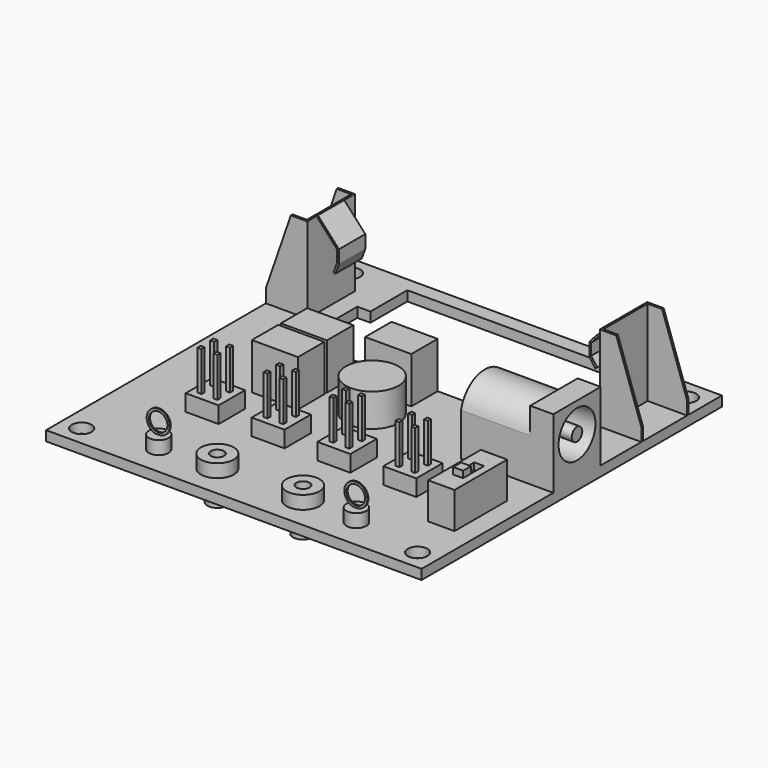
from build123d import *

# Parameters (mm, degrees)
SKETCH_W          = 57
SKETCH_H          = 57
PAD_DEPTH         = 1.5
SKETCH001_R       = 1.5
POCKET_DEPTH      = 1.5
SKETCH002_R       = 1.5
PAD001_DEPTH      = 3
SKETCH003_R       = 2.5
SKETCH003_R_2     = 1.5
PAD002_DEPTH      = 2
SKETCH004_R       = 1
POCKET001_DEPTH   = 6.501
SKETCH005_R       = 1.75
SKETCH005_R_2     = 1.4
PAD003_DEPTH      = 0.1
PAD003_DEPTH_BACK = 0.1
SKETCH006_W       = 4
SKETCH006_H       = 10
PAD004_DEPTH      = 5.5
SKETCH007_W       = 1.5
SKETCH007_H       = 4
POCKET002_DEPTH   = 1
SKETCH008_W       = 1.5
SKETCH008_H       = 1.5
PAD005_DEPTH      = 2
SKETCH009_W       = 5
SKETCH009_H       = 5
PAD006_DEPTH      = 2.5
SKETCH010_W       = 0.6
SKETCH010_H       = 0.6
PAD007_DEPTH      = 6
SKETCH011_W       = 14
SKETCH011_H       = 9
PAD008_DEPTH      = 10.5
POCKET003_DEPTH   = 10.5
SKETCH013_R       = 3.5
POCKET004_DEPTH   = 9
SKETCH014_R       = 1
PAD009_DEPTH      = 9
PAD010_DEPTH      = 13
POCKET005_DEPTH   = 9
PAD011_DEPTH      = 5
SKETCH018_W       = 7
SKETCH018_H       = 5
PAD012_DEPTH      = 7
SKETCH019_R       = 4
PAD013_DEPTH      = 5


with BuildPart() as part:
    # Sketch → Pad (new body)
    with BuildSketch(Plane.XY):
        Rectangle(SKETCH_W, SKETCH_H)
    extrude(amount=PAD_DEPTH)

    # Sketch001 (on Face6 of Pad) → Pocket (cut)
    with BuildSketch(Plane.XY.offset(1.5)):
        with Locations((-25.5, 25.5)):
            Circle(SKETCH001_R)
        with Locations((25.5, 25.5)):
            Circle(SKETCH001_R)
        with Locations((25.5, -25.5)):
            Circle(SKETCH001_R)
        with Locations((-25.5, -25.5)):
            Circle(SKETCH001_R)
        Polygon((-17.5, 26.3), (17.5, 26.3), (17.5, 19.3), (19.5, 19.3), (19.5, 15.3), (17.5, 15.3), (17.5, 8.3), (-17.5, 8.3), (-17.5, 15.3), (-19.5, 15.3), (-19.5, 19.3), (-17.5, 19.3), align=None)
    extrude(amount=-POCKET_DEPTH, mode=Mode.SUBTRACT)

    # Sketch002 (on Face4 of Pocket) → Pad001 (join)
    with BuildSketch(Plane(origin=(0, 0, 0), x_dir=(1, 0, 0), z_dir=(0, 0, -1))):
        with Locations((-6.5, 23.5)):
            Circle(SKETCH002_R)
        with Locations((6.5, 23.5)):
            Circle(SKETCH002_R)
    extrude(amount=PAD001_DEPTH)

    # Sketch003 (on Face5 of Pad001) → Pad002 (join)
    with BuildSketch(Plane.XY.offset(1.5)):
        with Locations((-6.5, -23.5)):
            Circle(SKETCH003_R)
        with Locations((6.5, -23.5)):
            Circle(SKETCH003_R)
        with Locations((15, -24)):
            Circle(SKETCH003_R_2)
        with Locations((-15, -24)):
            Circle(SKETCH003_R_2)
    extrude(amount=PAD002_DEPTH)

    # Sketch004 (on Face30 of Pad002) → Pocket001 (cut, through all)
    with BuildSketch(Plane(origin=(0, 0, -3), x_dir=(1, 0, 0), z_dir=(0, 0, -1))):
        with Locations((-6.5, 23.5)):
            Circle(SKETCH004_R)
        with Locations((6.5, 23.5)):
            Circle(SKETCH004_R)
    extrude(amount=-POCKET001_DEPTH, mode=Mode.SUBTRACT)

    # Sketch005 (on DatumPlane) → Pad003 (join, two sides)
    with BuildSketch(Plane(origin=(-15, -24, 3.5), x_dir=(0, 0, 1), z_dir=(0, -1, 0))) as pad003_sk:
        with Locations((1.7, 0)):
            Circle(SKETCH005_R)
        with Locations((1.7, 0)):
            Circle(SKETCH005_R_2, mode=Mode.SUBTRACT)
        with Locations((1.7, -30)):
            Circle(SKETCH005_R)
        with Locations((1.7, -30)):
            Circle(SKETCH005_R_2, mode=Mode.SUBTRACT)
    extrude(amount=PAD003_DEPTH)
    extrude(pad003_sk.sketch, amount=-PAD003_DEPTH_BACK)

    # Sketch006 (on Face5 of Pad003) → Pad004 (join)
    with BuildSketch(Plane.XY.offset(1.5)):
        with Locations((23.5, -13.5)):
            Rectangle(SKETCH006_W, SKETCH006_H)
    extrude(amount=PAD004_DEPTH)

    # Sketch007 (on Face39 of Pad004) → Pocket002 (cut)
    with BuildSketch(Plane.XY.offset(7)):
        with Locations((23.65, -13.5)):
            Rectangle(SKETCH007_W, SKETCH007_H)
    extrude(amount=-POCKET002_DEPTH, mode=Mode.SUBTRACT)

    # Sketch008 (on Face56 of Pocket002) → Pad005 (join)
    with BuildSketch(Plane.XY.offset(6)):
        with Locations((23.65, -14.75)):
            Rectangle(SKETCH008_W, SKETCH008_H)
    extrude(amount=PAD005_DEPTH)

    # Sketch009 (on Face5 of Pad005) → Pad006 (join)
    with BuildSketch(Plane.XY.offset(1.5)):
        with Locations((-16, -12)):
            Rectangle(SKETCH009_W, SKETCH009_H)
        with Locations((-6, -12)):
            Rectangle(SKETCH009_W, SKETCH009_H)
        with Locations((4, -12)):
            Rectangle(SKETCH009_W, SKETCH009_H)
        with Locations((14, -12)):
            Rectangle(SKETCH009_W, SKETCH009_H)
    extrude(amount=PAD006_DEPTH)

    # Sketch010 (on Face53 of Pad006) → Pad007 (join)
    with BuildSketch(Plane.XY.offset(4)):
        with Locations((-17.2, -10.8)):
            Rectangle(SKETCH010_W, SKETCH010_H)
        with Locations((-14.8, -10.8)):
            Rectangle(SKETCH010_W, SKETCH010_H)
        with Locations((-17.2, -13.2)):
            Rectangle(SKETCH010_W, SKETCH010_H)
        with Locations((-14.8, -13.2)):
            Rectangle(SKETCH010_W, SKETCH010_H)
        with Locations((-7.186728, -10.800583)):
            Rectangle(SKETCH010_W, SKETCH010_H)
        with Locations((-4.786728, -10.800583)):
            Rectangle(SKETCH010_W, SKETCH010_H)
        with Locations((-7.186728, -13.200583)):
            Rectangle(SKETCH010_W, SKETCH010_H)
        with Locations((-4.786728, -13.200583)):
            Rectangle(SKETCH010_W, SKETCH010_H)
        with Locations((2.826544, -10.801166)):
            Rectangle(SKETCH010_W, SKETCH010_H)
        with Locations((5.226544, -10.801166)):
            Rectangle(SKETCH010_W, SKETCH010_H)
        with Locations((2.826544, -13.201166)):
            Rectangle(SKETCH010_W, SKETCH010_H)
        with Locations((5.226544, -13.201166)):
            Rectangle(SKETCH010_W, SKETCH010_H)
        with Locations((12.839816, -10.801749)):
            Rectangle(SKETCH010_W, SKETCH010_H)
        with Locations((15.239816, -10.801749)):
            Rectangle(SKETCH010_W, SKETCH010_H)
        with Locations((12.839816, -13.201749)):
            Rectangle(SKETCH010_W, SKETCH010_H)
        with Locations((15.239816, -13.201749)):
            Rectangle(SKETCH010_W, SKETCH010_H)
    extrude(amount=PAD007_DEPTH)

    # Sketch011 (on Face5 of Pad007) → Pad008 (join)
    with BuildSketch(Plane.XY.offset(1.5)):
        with Locations((21.5, 1)):
            Rectangle(SKETCH011_W, SKETCH011_H)
    extrude(amount=PAD008_DEPTH)

    # Sketch012 (on Face27 of Pad008) → Pocket003 (cut)
    with BuildSketch(Plane(origin=(14.5, 0, 0), x_dir=(0, -1, 0), z_dir=(-1, 0, 0))):
        with BuildLine():
            ThreePointArc((3.5, 8), (-1, 11.609772), (-5.5, 8))
            Line((-5.5, 8), (-5.5, 12))
            Line((-5.5, 12), (3.5, 12))
            Line((3.5, 12), (3.5, 8))
        make_face()
    extrude(amount=-POCKET003_DEPTH, mode=Mode.SUBTRACT)

    # Sketch013 (on Face7 of Pocket003) → Pocket004 (cut)
    with BuildSketch(Plane.YZ.offset(28.5)):
        with Locations((1, 7.5)):
            Circle(SKETCH013_R)
    extrude(amount=-POCKET004_DEPTH, mode=Mode.SUBTRACT)

    # Sketch014 (on Face68 of Pocket004) → Pad009 (join)
    with BuildSketch(Plane.YZ.offset(19.5)):
        with Locations((1, 7.5)):
            Circle(SKETCH014_R)
    extrude(amount=PAD009_DEPTH)

    # Sketch015 (on Face5 of Pad009) → Pad010 (join)
    with BuildSketch(Plane.XY.offset(1.5)):
        Polygon((22.2, 22.2), (28.5, 22.2), (28.5, 21.9), (22.5, 21.9), (22.5, 13.5), (28.5, 13.5), (28.5, 13.2), (22.2, 13.2), align=None)
        Polygon((-28.5, 22.2), (-22.2, 22.2), (-22.2, 13.2), (-28.5, 13.2), (-28.5, 13.5), (-22.5, 13.5), (-22.5, 21.9), (-28.5, 21.9), align=None)
    extrude(amount=PAD010_DEPTH)

    # Sketch016 (on Face32 of Pad010) → Pocket005 (cut)
    with BuildSketch(Plane(origin=(0, 22.2, 0), x_dir=(-1, 0, 0), z_dir=(0, 1, 0))):
        Polygon((24.7, 14.5), (28.5, 14.5), (28.5, 3.5), align=None)
        Polygon((-24.7, 14.5), (-28.5, 14.5), (-28.5, 3.5), align=None)
    extrude(amount=-POCKET005_DEPTH, mode=Mode.SUBTRACT)

    # Sketch017 (on DatumPlane) → Pad011 (join)
    with BuildSketch(Plane(origin=(-22.2, 20.2, 14.5), x_dir=(-1, 0, 0), z_dir=(0, 1, 0))):
        Polygon((0, 0), (-3.2, -3.5), (-3.2, -5.5), (-2.6575, -6.951962), (-2.376475, -6.846962), (-2.918975, -5.395), (-2.918975, -3.605), (0.281025, -0.105), align=None)
        Polygon((-44.4, 0), (-41.2, -3.5), (-41.2, -5.5), (-42.101985, -6.760525), (-42.400843, -6.546673), (-41.498858, -5.286148), (-41.498858, -3.526148), (-44.575806, -0.160737), align=None)
    extrude(amount=-PAD011_DEPTH)

    # Sketch018 (on Face5 of Pad011) → Pad012 (join)
    with BuildSketch(Plane.XY.offset(1.5)):
        with Locations((-12, 2.3)):
            Rectangle(SKETCH018_W, SKETCH018_H)
        with Locations((-12, -3.2)):
            Rectangle(SKETCH018_W, SKETCH018_H)
        with Locations((-2, 5.8)):
            Rectangle(SKETCH018_W, SKETCH018_H)
    extrude(amount=PAD012_DEPTH)

    # Sketch019 (on Face5 of Pad012) → Pad013 (join)
    with BuildSketch(Plane.XY.offset(1.5)):
        with Locations((-1, -1)):
            Circle(SKETCH019_R)
    extrude(amount=PAD013_DEPTH)


solid = part.part
